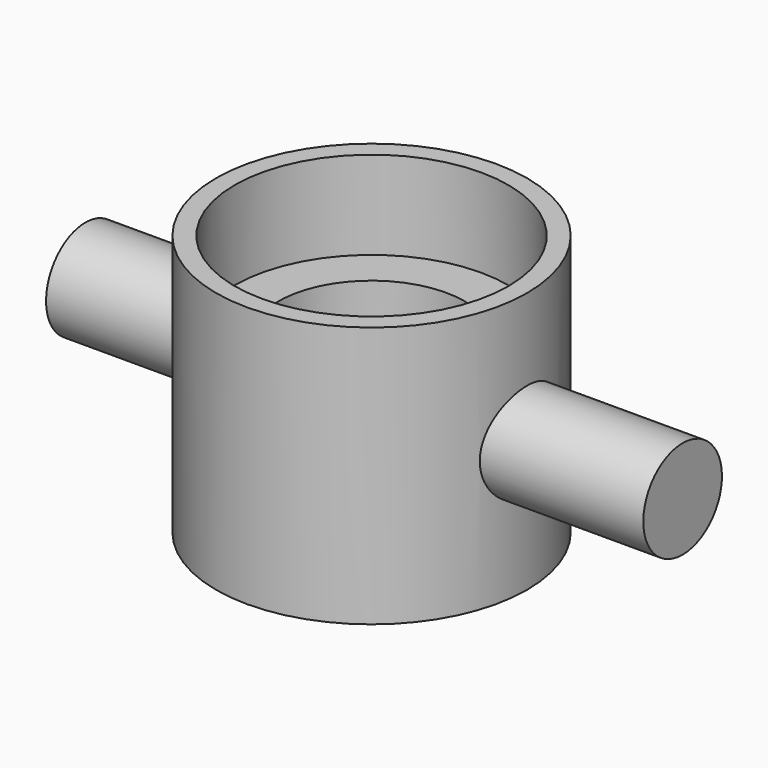
from build123d import *

# Parameters (mm, degrees)
CYLINDER001_R           = 7.5
CYLINDER001_DEPTH       = 50
CYLINDER003_R           = 11
CYLINDER003_DEPTH       = 7.1
CYLINDER002_R           = 11
CYLINDER002_DEPTH       = 7.1
CYLINDER004_R           = 3.95
CYLINDER004_DEPTH       = 48
CYLINDER004_PITCH_ANGLE = 90
CYLINDER_R              = 12.5
CYLINDER_DEPTH          = 21


with BuildPart() as cylindre001:
    # Cylinder001 → Cylinder001 (new body)
    with BuildSketch(Plane.XY.offset(-11)):
        Circle(CYLINDER001_R)
    extrude(amount=CYLINDER001_DEPTH)


with BuildPart() as cylindre003:
    # Cylinder003 → Cylinder003 (new body)
    with BuildSketch(Plane.XY.offset(13.91)):
        Circle(CYLINDER003_R)
    extrude(amount=CYLINDER003_DEPTH)


with BuildPart() as cylindre002:
    # Cylinder002 → Cylinder002 (new body)
    with BuildSketch(Plane.XY.offset(-0.0001)):
        Circle(CYLINDER002_R)
    extrude(amount=CYLINDER002_DEPTH)


with BuildPart() as axe_rotation:
    # Cylinder004 → Cylinder004 (new body)
    with BuildSketch(Plane.XY):
        Circle(CYLINDER004_R)
    extrude(amount=CYLINDER004_DEPTH)


with BuildPart() as axe_rotation_1:
    # Cylinder004 pitch: moved
    add(axe_rotation.part.rotate(Axis((0, 0, 0), (0, 1, 0)), CYLINDER004_PITCH_ANGLE))


with BuildPart() as axe_rotation_2:
    # Cylinder004 placement: moved
    add(axe_rotation_1.part.moved(Location((-23, 0, 10.5))))


with BuildPart() as obj1:
    # Cylinder → Cylinder (new body)
    with BuildSketch(Plane.XY):
        Circle(CYLINDER_R)
    extrude(amount=CYLINDER_DEPTH)

    # Fusion: union Axe rotation
    add(axe_rotation_2.part)

    # Cut003: cut Cylindre002
    add(cylindre002.part, mode=Mode.SUBTRACT)

    # Cut004: cut Cylindre003
    add(cylindre003.part, mode=Mode.SUBTRACT)

    # Cut005: cut Cylindre001
    add(cylindre001.part, mode=Mode.SUBTRACT)


solid = obj1.part
